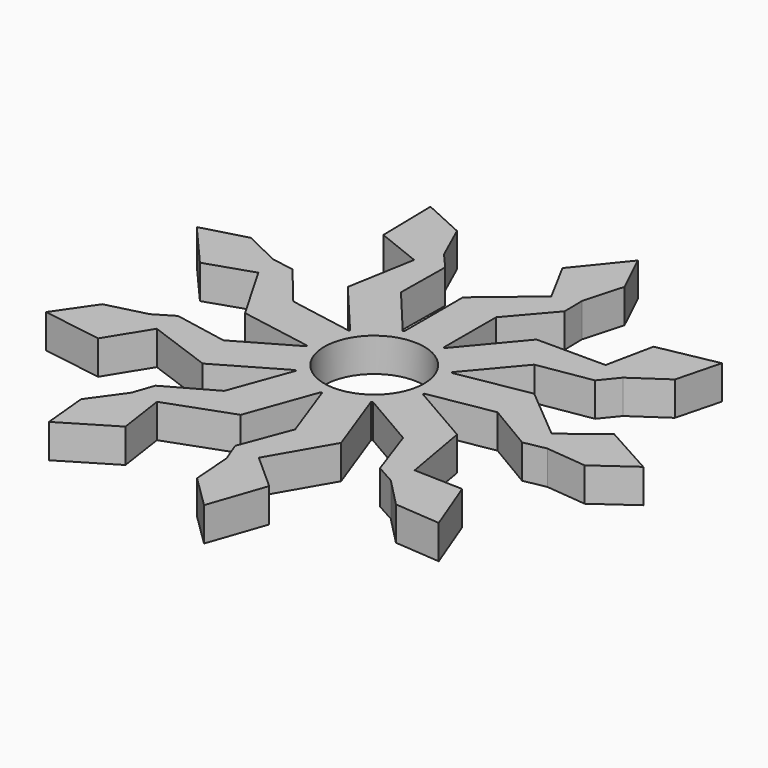
from build123d import *

# Parameters (mm, degrees)
F1_DEPTH = 7.62
F0_R     = 11.2522
F2_DEPTH = 7.62


with BuildPart() as f1:
    # F0 (on Top) → F1 (new body)
    with BuildSketch(Plane.XY):
        with BuildLine():
            ThreePointArc((-3.9385318308, 13.4033155233), (0.7325708557, 13.9507791876), (5.3206462872, 12.9171058324))
            Line((5.3206462872, 12.9171058324), (5.3505152215, 27.6535799162))
            Line((5.3505152215, 27.6535799162), (13.3515715605, 36.9606269657))
            Line((13.3515715605, 36.9606269657), (13.2676743741, 41.9588717661))
            Line((13.2676743741, 41.9588717661), (15.7512771551, 50.8124839738))
            Line((15.7512771551, 50.8124839738), (11.3088850365, 60.1405785306))
            Line((11.3088850365, 60.1405785306), (2.7603775547, 49.582720472))
            Line((2.7603775547, 49.582720472), (7.9616276419, 39.9251796577))
            Line((7.9616276419, 39.9251796577), (-3.9560442683, 29.9250655534))
            Line((-3.9560442683, 29.9250655534), (-3.9385318308, 13.4033155233))
        make_face()
    extrude(amount=F1_DEPTH)


with BuildPart() as f1b:
    # F0 (on Top) → F1, piece 2 (new body)
    with BuildSketch(Plane.XY):
        with BuildLine():
            ThreePointArc((-11.6325755701, 7.7358959148), (-8.4062061741, 11.1578043431), (-4.22710406, 13.3151226531))
            Line((-4.22710406, 13.3151226531), (-13.6766460804, 24.6231161169))
            Line((-13.6766460804, 24.6231161169), (-13.529935859, 36.8957076702))
            Line((-13.529935859, 36.8957076702), (-16.8070146603, 40.670657253))
            Line((-16.8070146603, 40.670657253), (-20.595456779, 49.0493467813))
            Line((-20.595456779, 49.0493467813), (-29.9945101788, 53.3395671702))
            Line((-29.9945101788, 53.3395671702), (-29.7565864873, 39.7569039825))
            Line((-29.7565864873, 39.7569039825), (-19.5644501852, 35.7020976184))
            Line((-19.5644501852, 35.7020976184), (-22.2659670852, 20.3810339381))
            Line((-22.2659670852, 20.3810339381), (-11.6325755701, 7.7358959148))
        make_face()
    extrude(amount=F1_DEPTH)


with BuildPart() as f1c:
    # F0 (on Top) → F1, piece 3 (new body)
    with BuildSketch(Plane.XY):
        with BuildLine():
            ThreePointArc((10.5175244343, 9.1947038981), (11.5304530468, 7.8911833329), (12.3788071042, 6.4750316351))
            Line((12.3788071042, 6.4750316351), (21.8741109868, 17.7446263373))
            Line((21.8741109868, 17.7446263373), (33.9857302606, 19.7312581324))
            Line((33.9857302606, 19.7312581324), (37.1342711151, 23.614063859))
            Line((37.1342711151, 23.614063859), (44.7278134525, 28.7998951972))
            Line((44.7278134525, 28.7998951972), (47.3207272589, 38.8011448085))
            Line((47.3207272589, 38.8011448085), (33.9857302606, 36.2082310021))
            Line((33.9857302606, 36.2082310021), (31.7623714117, 25.4668264162))
            Line((31.7623714117, 25.4668264162), (16.2049556283, 25.4668264162))
            Line((16.2049556283, 25.4668264162), (5.5983947241, 12.7991748372))
            ThreePointArc((5.5983947241, 12.7991748372), (8.2570433733, 11.2686349986), (10.5175244343, 9.1947038981))
        make_face()
    extrude(amount=F1_DEPTH)


with BuildPart() as f1d:
    # F0 (on Top) → F1, piece 4 (new body)
    with BuildSketch(Plane.XY):
        with BuildLine():
            ThreePointArc((13.97, 0), (13.8884586516, -1.5071882043), (13.644786502, -2.9967818262))
            Line((13.644786502, -2.9967818262), (28.1625671178, -0.4672351143))
            Line((28.1625671178, -0.4672351143), (38.7175880625, -6.7305856696))
            Line((38.7175880625, -6.7305856696), (43.6253296999, -5.7800269689))
            Line((43.6253296999, -5.7800269689), (52.7757087411, -6.6884846174))
            Line((52.7757087411, -6.6884846174), (61.1906752856, -0.6937757962))
            Line((61.1906752856, -0.6937757962), (49.3087820683, 5.8915078367))
            Line((49.3087820683, 5.8915078367), (40.7011485986, -0.9077379377))
            Line((40.7011485986, -0.9077379377), (28.7834766884, 9.0923761666))
            Line((28.7834766884, 9.0923761666), (12.5157701684, 6.2061579978))
            ThreePointArc((12.5157701684, 6.2061579977), (13.6015846366, 3.187129645), (13.97, 0))
        make_face()
    extrude(amount=F1_DEPTH)


with BuildPart() as f1e:
    # F0 (on Top) → F1, piece 5 (new body)
    with BuildSketch(Plane.XY):
        with BuildLine():
            Line((27.8938891133, -11.5364979418), (13.5768776535, -3.2907891426))
            ThreePointArc((13.5768776535, -3.2907891426), (11.7154437512, -7.6098145649), (8.5262186506, -11.0663677655))
            Line((8.5262186506, -11.0663677655), (21.2734451023, -18.4604720632))
            Line((21.2734451023, -18.4604720632), (25.3330561119, -30.0431136347))
            Line((25.3330561119, -30.0431136347), (29.7036116766, -32.4695789401))
            Line((29.7036116766, -32.4695789401), (36.1292633731, -39.0472481453))
            Line((36.1292633731, -39.0472481453), (46.4288262876, -39.8640709954))
            Line((46.4288262876, -39.8640709954), (41.5597067402, -27.1819173224))
            Line((41.5597067402, -27.1819173224), (30.5954060133, -26.8575616222))
            Line((30.5954060133, -26.8575616222), (27.8938891133, -11.5364979418))
        make_face()
    extrude(amount=F1_DEPTH)


with BuildPart() as f1f:
    # F0 (on Top) → F1, piece 6 (new body)
    with BuildSketch(Plane.XY):
        with BuildLine():
            Line((13.952440816, -26.7673164494), (8.2852131944, -11.2479394701))
            ThreePointArc((8.2852131944, -11.2479394701), (4.08305607, -13.3599982459), (-0.5818616658, -13.9578772384))
            Line((-0.5818616658, -13.9578772384), (4.4302416954, -27.8158489684))
            Line((4.4302416954, -27.8158489684), (0.094905661, -39.2981348381))
            Line((0.094905661, -39.2981348381), (1.8832436309, -43.9662540662))
            Line((1.8832436309, -43.9662540662), (2.5775341408, -53.1353703042))
            Line((2.5775341408, -53.1353703042), (9.9424134706, -60.381524336))
            Line((9.9424134706, -60.381524336), (14.3643827436, -47.5366212729))
            Line((14.3643827436, -47.5366212729), (6.1737329243, -40.2404337351))
            Line((6.1737329243, -40.2404337351), (13.952440816, -26.7673164494))
        make_face()
    extrude(amount=F1_DEPTH)


with BuildPart() as f1g:
    # F0 (on Top) → F1, piece 7 (new body)
    with BuildSketch(Plane.XY):
        with BuildLine():
            Line((-6.5175096032, -29.4734101047), (-0.8831945982, -13.9420539126))
            ThreePointArc((-0.8831945982, -13.9420539126), (-5.4598389245, -12.8588902678), (-9.4176824421, -10.3183408269))
            Line((-9.4176824421, -10.3183408269), (-14.4859210374, -24.1558810026))
            Line((-14.4859210374, -24.1558810026), (-25.1876522035, -30.1651220006))
            Line((-25.1876522035, -30.1651220006), (-26.8183150395, -34.8906302841))
            Line((-26.8183150395, -34.8906302841), (-32.1802519621, -42.3608621638))
            Line((-32.1802519621, -42.3608621638), (-31.1961651068, -52.645791374))
            Line((-31.1961651068, -52.645791374), (-19.552195581, -45.6484118191))
            Line((-19.552195581, -45.6484118191), (-21.1366984133, -34.7943596807))
            Line((-21.1366984133, -34.7943596807), (-6.5175096032, -29.4734101047))
        make_face()
    extrude(amount=F1_DEPTH)


with BuildPart() as f1h:
    # F0 (on Top) → F1, piece 8 (new body)
    with BuildSketch(Plane.XY):
        with BuildLine():
            Line((-23.937844845, -18.3885676115), (-9.6383458228, -10.1125263807))
            ThreePointArc((-9.6383458228, -10.1125263807), (-12.4480146069, -6.3409646227), (-13.8468649379, -1.8507380669))
            Line((-13.8468649379, -1.8507380669), (-26.6239603237, -9.193107853))
            Line((-26.6239603237, -9.193107853), (-38.6846276724, -6.9175133311))
            Line((-38.6846276724, -6.9175133311), (-42.9712860506, -9.489292826))
            Line((-42.9712860506, -9.489292826), (-51.8805405283, -11.7652358285))
            Line((-51.8805405283, -11.7652358285), (-57.737711324, -20.2765075353))
            Line((-57.737711324, -20.2765075353), (-44.3200842948, -22.4008031496))
            Line((-44.3200842948, -22.4008031496), (-38.5570336552, -13.0676180355))
            Line((-38.5570336552, -13.0676180355), (-23.937844845, -18.3885676115))
        make_face()
    extrude(amount=F1_DEPTH)


with BuildPart() as f1i:
    # F0 (on Top) → F1, piece 9 (new body)
    with BuildSketch(Plane.XY):
        with BuildLine():
            Line((-30.1573964443, 1.3004900332), (-13.8836079185, -1.5512353671))
            ThreePointArc((-13.8836079185, -1.5512353671), (-13.6116259104, 3.1439688413), (-11.7969454385, 7.4828456032))
            Line((-11.7969454385, 7.4828456032), (-26.3043526822, 10.0712226311))
            Line((-26.3043526822, 10.0712226311), (-34.0806359216, 19.5668767057))
            Line((-34.0806359216, 19.5668767057), (-39.017514746, 20.3521902072))
            Line((-39.017514746, 20.3521902072), (-47.3053475933, 24.335475107))
            Line((-47.3053475933, 24.335475107), (-57.2631407296, 21.5803795275))
            Line((-57.2631407296, 21.5803795275), (-48.3501130042, 11.3283902708))
            Line((-48.3501130042, 11.3283902708), (-37.936104336, 14.7736073189))
            Line((-37.936104336, 14.7736073189), (-30.1573964443, 1.3004900332))
        make_face()
    extrude(amount=F1_DEPTH)


with BuildPart() as f2:
    # F0 (on Top) → F2 (new body)
    with BuildSketch(Plane.XY):
        with BuildLine():
            ThreePointArc((12.4690317481, 6.1978656624), (13.8163278716, 1.6976516988), (13.644786502, -2.9967818262))
            ThreePointArc((13.644786502, -2.9967818262), (13.8884586516, -1.5071882043), (13.97, 0))
            ThreePointArc((13.97, 0), (13.6015846366, 3.187129645), (12.5157701684, 6.2061579977))
            Line((12.5157701684, 6.2061579978), (12.4690317481, 6.1978656624))
        make_face()
        with BuildLine():
            ThreePointArc((13.97, 0), (13.8884586516, -1.5071882043), (13.644786502, -2.9967818262))
            Line((13.644786502, -2.9967818262), (28.1625671178, -0.4672351143))
            Line((28.1625671178, -0.4672351143), (38.7175880625, -6.7305856696))
            Line((38.7175880625, -6.7305856696), (43.6253296999, -5.7800269689))
            Line((43.6253296999, -5.7800269689), (52.7757087411, -6.6884846174))
            Line((52.7757087411, -6.6884846174), (61.1906752856, -0.6937757962))
            Line((61.1906752856, -0.6937757962), (49.3087820683, 5.8915078367))
            Line((49.3087820683, 5.8915078367), (40.7011485986, -0.9077379377))
            Line((40.7011485986, -0.9077379377), (28.7834766884, 9.0923761666))
            Line((28.7834766884, 9.0923761666), (12.5157701684, 6.2061579978))
            ThreePointArc((12.5157701684, 6.2061579977), (13.6015846366, 3.187129645), (13.97, 0))
        make_face()
        with BuildLine():
            ThreePointArc((13.5768776535, -3.2907891426), (13.6116259104, -3.1439688413), (13.644786502, -2.9967818262))
            ThreePointArc((13.644786502, -2.9967818262), (13.8163278716, 1.6976516988), (12.4690317481, 6.1978656624))
            Line((12.4690317481, 6.1978656624), (12.5157701684, 6.2061579978))
            ThreePointArc((12.5157701684, 6.2061579977), (12.4480146069, 6.3409646227), (12.3788071042, 6.4750316351))
            ThreePointArc((12.3788071042, 6.4750316351), (9.4926917128, 10.1814410175), (5.5679212274, 12.7627796623))
            Line((5.5679212274, 12.7627796623), (5.5983947241, 12.7991748372))
            ThreePointArc((5.5983947241, 12.7991748372), (5.4598389245, 12.8588902678), (5.3206462872, 12.9171058324))
            ThreePointArc((5.3206462872, 12.9171058324), (0.727319602, 13.9012209299), (-3.9384815161, 13.3558472158))
            Line((-3.9384815161, 13.3558472158), (-3.9385318308, 13.4033155233))
            ThreePointArc((-3.9385318308, 13.4033155233), (-4.08305607, 13.3599982459), (-4.22710406, 13.3151226531))
            ThreePointArc((-4.22710406, 13.3151226531), (-8.3783734338, 11.1164650744), (-11.6020249869, 7.6995654232))
            Line((-11.6020249869, 7.6995654232), (-11.6325755701, 7.7358959148))
            ThreePointArc((-11.6325755701, 7.7358959148), (-11.7154437512, 7.6098145649), (-11.7969454385, 7.4828456032))
            ThreePointArc((-11.7969454385, 7.4828456032), (-13.5637324247, 3.1301916648), (-13.8368520242, -1.559428602))
            Line((-13.8368520242, -1.559428602), (-13.8836079185, -1.5512353671))
            ThreePointArc((-13.8836079185, -1.5512353671), (-13.8660450986, -1.7010859247), (-13.8468649379, -1.8507380669))
            ThreePointArc((-13.8468649379, -1.8507380669), (-12.4024702699, -6.3207332129), (-9.5972622199, -10.0887486532))
            Line((-9.5972622199, -10.0887486532), (-9.6383458228, -10.1125263807))
            ThreePointArc((-9.6383458228, -10.1125263807), (-9.5285698404, -10.2160294046), (-9.4176824421, -10.3183408269))
            ThreePointArc((-9.4176824421, -10.3183408269), (-5.4379544378, -12.8141167732), (-0.8670067612, -13.8974310856))
            Line((-0.8670067612, -13.8974310856), (-0.8831945982, -13.9420539126))
            ThreePointArc((-0.8831945982, -13.9420539126), (-0.7325708557, -13.9507791876), (-0.5818616658, -13.9578772384))
            ThreePointArc((-0.5818616658, -13.9578772384), (4.0710407119, -13.3116326823), (8.2689307968, -11.2033510604))
            Line((8.2689307968, -11.2033510604), (8.2852131944, -11.2479394701))
            ThreePointArc((8.2852131944, -11.2479394701), (8.4062061741, -11.1578043431), (8.5262186506, -11.0663677655))
            ThreePointArc((8.5262186506, -11.0663677655), (11.6751506679, -7.580487717), (13.535743736, -3.2670985626))
            Line((13.535743736, -3.2670985626), (13.5768776535, -3.2907891426))
        make_face()
        Circle(F0_R, mode=Mode.SUBTRACT)
        with BuildLine():
            Line((27.8938891133, -11.5364979418), (13.5768776535, -3.2907891426))
            ThreePointArc((13.5768776535, -3.2907891426), (11.7154437512, -7.6098145649), (8.5262186506, -11.0663677655))
            Line((8.5262186506, -11.0663677655), (21.2734451023, -18.4604720632))
            Line((21.2734451023, -18.4604720632), (25.3330561119, -30.0431136347))
            Line((25.3330561119, -30.0431136347), (29.7036116766, -32.4695789401))
            Line((29.7036116766, -32.4695789401), (36.1292633731, -39.0472481453))
            Line((36.1292633731, -39.0472481453), (46.4288262876, -39.8640709954))
            Line((46.4288262876, -39.8640709954), (41.5597067402, -27.1819173224))
            Line((41.5597067402, -27.1819173224), (30.5954060133, -26.8575616222))
            Line((30.5954060133, -26.8575616222), (27.8938891133, -11.5364979418))
        make_face()
        with BuildLine():
            ThreePointArc((8.5262186506, -11.0663677655), (11.7154437512, -7.6098145649), (13.5768776535, -3.2907891426))
            Line((13.5768776535, -3.2907891426), (13.535743736, -3.2670985626))
            ThreePointArc((13.535743736, -3.2670985626), (11.6751506679, -7.580487717), (8.5262186506, -11.0663677655))
        make_face()
        with BuildLine():
            ThreePointArc((5.5679212274, 12.7627796623), (9.4926917128, 10.1814410175), (12.3788071042, 6.4750316351))
            ThreePointArc((12.3788071042, 6.4750316351), (11.5286449241, 7.8899458943), (10.5175244343, 9.1947038981))
            ThreePointArc((10.5175244343, 9.1947038981), (8.2444148298, 11.2585271409), (5.5679212274, 12.7627796623))
        make_face()
        with BuildLine():
            ThreePointArc((10.5175244343, 9.1947038981), (11.5304530468, 7.8911833329), (12.3788071042, 6.4750316351))
            Line((12.3788071042, 6.4750316351), (21.8741109868, 17.7446263373))
            Line((21.8741109868, 17.7446263373), (33.9857302606, 19.7312581324))
            Line((33.9857302606, 19.7312581324), (37.1342711151, 23.614063859))
            Line((37.1342711151, 23.614063859), (44.7278134525, 28.7998951972))
            Line((44.7278134525, 28.7998951972), (47.3207272589, 38.8011448085))
            Line((47.3207272589, 38.8011448085), (33.9857302606, 36.2082310021))
            Line((33.9857302606, 36.2082310021), (31.7623714117, 25.4668264162))
            Line((31.7623714117, 25.4668264162), (16.2049556283, 25.4668264162))
            Line((16.2049556283, 25.4668264162), (5.5983947241, 12.7991748372))
            ThreePointArc((5.5983947241, 12.7991748372), (8.2570433733, 11.2686349986), (10.5175244343, 9.1947038981))
        make_face()
        with BuildLine():
            ThreePointArc((10.5175244343, 9.1947038981), (11.5286449241, 7.8899458943), (12.3788071042, 6.4750316351))
            ThreePointArc((12.3788071042, 6.4750316351), (11.5304530468, 7.8911833329), (10.5175244343, 9.1947038981))
        make_face()
        with BuildLine():
            Line((13.952440816, -26.7673164494), (8.2852131944, -11.2479394701))
            ThreePointArc((8.2852131944, -11.2479394701), (4.08305607, -13.3599982459), (-0.5818616658, -13.9578772384))
            Line((-0.5818616658, -13.9578772384), (4.4302416954, -27.8158489684))
            Line((4.4302416954, -27.8158489684), (0.094905661, -39.2981348381))
            Line((0.094905661, -39.2981348381), (1.8832436309, -43.9662540662))
            Line((1.8832436309, -43.9662540662), (2.5775341408, -53.1353703042))
            Line((2.5775341408, -53.1353703042), (9.9424134706, -60.381524336))
            Line((9.9424134706, -60.381524336), (14.3643827436, -47.5366212729))
            Line((14.3643827436, -47.5366212729), (6.1737329243, -40.2404337351))
            Line((6.1737329243, -40.2404337351), (13.952440816, -26.7673164494))
        make_face()
        with BuildLine():
            ThreePointArc((-0.5818616658, -13.9578772384), (4.08305607, -13.3599982459), (8.2852131944, -11.2479394701))
            Line((8.2852131944, -11.2479394701), (8.2689307968, -11.2033510604))
            ThreePointArc((8.2689307968, -11.2033510604), (4.0710407119, -13.3116326823), (-0.5818616658, -13.9578772384))
        make_face()
        with BuildLine():
            ThreePointArc((5.5679212274, 12.7627796623), (8.2444148298, 11.2585271409), (10.5175244343, 9.1947038981))
            ThreePointArc((10.5175244343, 9.1947038981), (8.2570433733, 11.2686349986), (5.5983947241, 12.7991748372))
            Line((5.5983947241, 12.7991748372), (5.5679212274, 12.7627796623))
        make_face()
        with BuildLine():
            Line((-6.5175096032, -29.4734101047), (-0.8831945982, -13.9420539126))
            ThreePointArc((-0.8831945982, -13.9420539126), (-5.4598389245, -12.8588902678), (-9.4176824421, -10.3183408269))
            Line((-9.4176824421, -10.3183408269), (-14.4859210374, -24.1558810026))
            Line((-14.4859210374, -24.1558810026), (-25.1876522035, -30.1651220006))
            Line((-25.1876522035, -30.1651220006), (-26.8183150395, -34.8906302841))
            Line((-26.8183150395, -34.8906302841), (-32.1802519621, -42.3608621638))
            Line((-32.1802519621, -42.3608621638), (-31.1961651068, -52.645791374))
            Line((-31.1961651068, -52.645791374), (-19.552195581, -45.6484118191))
            Line((-19.552195581, -45.6484118191), (-21.1366984133, -34.7943596807))
            Line((-21.1366984133, -34.7943596807), (-6.5175096032, -29.4734101047))
        make_face()
        with BuildLine():
            ThreePointArc((-9.4176824421, -10.3183408269), (-5.4598389245, -12.8588902678), (-0.8831945982, -13.9420539126))
            Line((-0.8831945982, -13.9420539126), (-0.8670067612, -13.8974310856))
            ThreePointArc((-0.8670067612, -13.8974310856), (-5.4379544378, -12.8141167732), (-9.4176824421, -10.3183408269))
        make_face()
        with BuildLine():
            ThreePointArc((-3.9384815161, 13.3558472158), (0.727319602, 13.9012209299), (5.3206462872, 12.9171058324))
            ThreePointArc((5.3206462872, 12.9171058324), (0.7325708557, 13.9507791876), (-3.9385318308, 13.4033155233))
            Line((-3.9385318308, 13.4033155233), (-3.9384815161, 13.3558472158))
        make_face()
        with BuildLine():
            ThreePointArc((-3.9385318308, 13.4033155233), (0.7325708557, 13.9507791876), (5.3206462872, 12.9171058324))
            Line((5.3206462872, 12.9171058324), (5.3505152215, 27.6535799162))
            Line((5.3505152215, 27.6535799162), (13.3515715605, 36.9606269657))
            Line((13.3515715605, 36.9606269657), (13.2676743741, 41.9588717661))
            Line((13.2676743741, 41.9588717661), (15.7512771551, 50.8124839738))
            Line((15.7512771551, 50.8124839738), (11.3088850365, 60.1405785306))
            Line((11.3088850365, 60.1405785306), (2.7603775547, 49.582720472))
            Line((2.7603775547, 49.582720472), (7.9616276419, 39.9251796577))
            Line((7.9616276419, 39.9251796577), (-3.9560442683, 29.9250655534))
            Line((-3.9560442683, 29.9250655534), (-3.9385318308, 13.4033155233))
        make_face()
        with BuildLine():
            Line((-23.937844845, -18.3885676115), (-9.6383458228, -10.1125263807))
            ThreePointArc((-9.6383458228, -10.1125263807), (-12.4480146069, -6.3409646227), (-13.8468649379, -1.8507380669))
            Line((-13.8468649379, -1.8507380669), (-26.6239603237, -9.193107853))
            Line((-26.6239603237, -9.193107853), (-38.6846276724, -6.9175133311))
            Line((-38.6846276724, -6.9175133311), (-42.9712860506, -9.489292826))
            Line((-42.9712860506, -9.489292826), (-51.8805405283, -11.7652358285))
            Line((-51.8805405283, -11.7652358285), (-57.737711324, -20.2765075353))
            Line((-57.737711324, -20.2765075353), (-44.3200842948, -22.4008031496))
            Line((-44.3200842948, -22.4008031496), (-38.5570336552, -13.0676180355))
            Line((-38.5570336552, -13.0676180355), (-23.937844845, -18.3885676115))
        make_face()
        with BuildLine():
            ThreePointArc((-13.8468649379, -1.8507380669), (-12.4480146069, -6.3409646227), (-9.6383458228, -10.1125263807))
            Line((-9.6383458228, -10.1125263807), (-9.5972622199, -10.0887486532))
            ThreePointArc((-9.5972622199, -10.0887486532), (-12.4024702699, -6.3207332129), (-13.8468649379, -1.8507380669))
        make_face()
        with BuildLine():
            ThreePointArc((-11.6020249869, 7.6995654232), (-8.3783734338, 11.1164650744), (-4.22710406, 13.3151226531))
            ThreePointArc((-4.22710406, 13.3151226531), (-8.4062061741, 11.1578043431), (-11.6325755701, 7.7358959148))
            Line((-11.6325755701, 7.7358959148), (-11.6020249869, 7.6995654232))
        make_face()
        with BuildLine():
            ThreePointArc((-11.6325755701, 7.7358959148), (-8.4062061741, 11.1578043431), (-4.22710406, 13.3151226531))
            Line((-4.22710406, 13.3151226531), (-13.6766460804, 24.6231161169))
            Line((-13.6766460804, 24.6231161169), (-13.529935859, 36.8957076702))
            Line((-13.529935859, 36.8957076702), (-16.8070146603, 40.670657253))
            Line((-16.8070146603, 40.670657253), (-20.595456779, 49.0493467813))
            Line((-20.595456779, 49.0493467813), (-29.9945101788, 53.3395671702))
            Line((-29.9945101788, 53.3395671702), (-29.7565864873, 39.7569039825))
            Line((-29.7565864873, 39.7569039825), (-19.5644501852, 35.7020976184))
            Line((-19.5644501852, 35.7020976184), (-22.2659670852, 20.3810339381))
            Line((-22.2659670852, 20.3810339381), (-11.6325755701, 7.7358959148))
        make_face()
        with BuildLine():
            Line((-30.1573964443, 1.3004900332), (-13.8836079185, -1.5512353671))
            ThreePointArc((-13.8836079185, -1.5512353671), (-13.6116259104, 3.1439688413), (-11.7969454385, 7.4828456032))
            Line((-11.7969454385, 7.4828456032), (-26.3043526822, 10.0712226311))
            Line((-26.3043526822, 10.0712226311), (-34.0806359216, 19.5668767057))
            Line((-34.0806359216, 19.5668767057), (-39.017514746, 20.3521902072))
            Line((-39.017514746, 20.3521902072), (-47.3053475933, 24.335475107))
            Line((-47.3053475933, 24.335475107), (-57.2631407296, 21.5803795275))
            Line((-57.2631407296, 21.5803795275), (-48.3501130042, 11.3283902708))
            Line((-48.3501130042, 11.3283902708), (-37.936104336, 14.7736073189))
            Line((-37.936104336, 14.7736073189), (-30.1573964443, 1.3004900332))
        make_face()
        with BuildLine():
            ThreePointArc((-11.7969454385, 7.4828456032), (-13.6116259104, 3.1439688413), (-13.8836079185, -1.5512353671))
            Line((-13.8836079185, -1.5512353671), (-13.8368520242, -1.559428602))
            ThreePointArc((-13.8368520242, -1.559428602), (-13.5637324247, 3.1301916648), (-11.7969454385, 7.4828456032))
        make_face()
    extrude(amount=F2_DEPTH)


solid = Compound([f1.part, f1b.part, f1c.part, f1d.part, f1e.part, f1f.part, f1g.part, f1h.part, f1i.part, f2.part])
